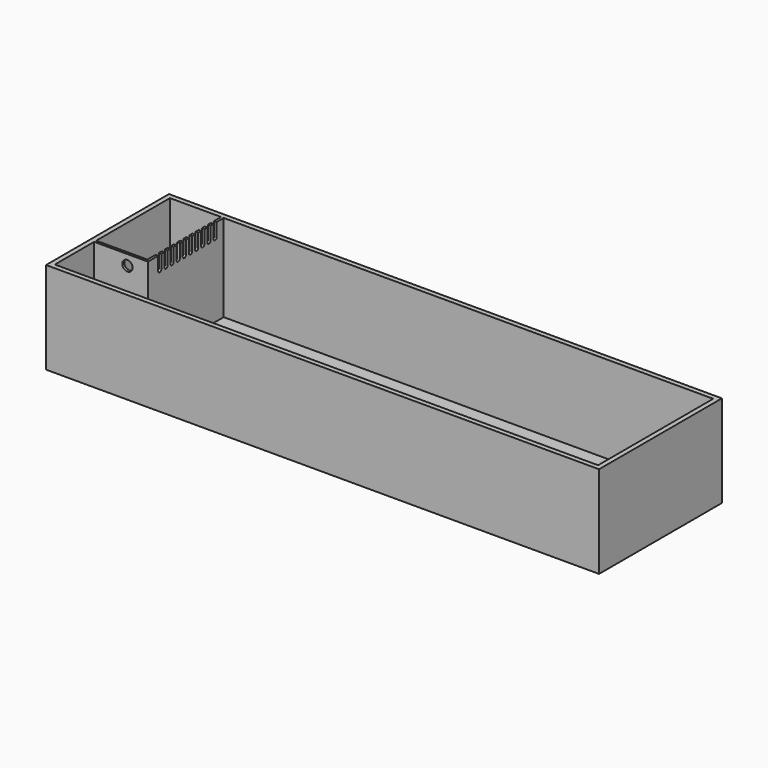
from build123d import *

# Parameters (mm, degrees)
F0_W      = 1371.6
F0_H      = 381
F1_DEPTH  = 228.6
F2_T      = -12
F4_DEPTH  = 216.6
F5_R      = 12.7
F6_DEPTH  = 25.4
F8_DEPTH  = 25.4
F9_R      = 12.7
F10_DEPTH = 25.4


with BuildPart() as f1:
    # F0 (on Top) → F1 (new body)
    with BuildSketch(Plane.XY):
        with Locations((-10.599822, -28.919976)):
            Rectangle(F0_W, F0_H)
    extrude(amount=F1_DEPTH)

    # F2
    f2_openings = [f1.faces().sort_by_distance(p)[0] for p in [
        (-10.599822, -28.919976, 228.6),
    ]]
    offset(amount=F2_T, openings=f2_openings)

    # F9 (on face) → F10 (cut)
    with BuildSketch(Plane(origin=(-696.399822, 0, 0), x_dir=(0, -1, 0), z_dir=(-1, 0, 0))):
        with Locations((-76.2, 50.1)):
            Circle(F9_R)
        with Locations((0, 50.1)):
            Circle(F9_R)
    extrude(amount=-F10_DEPTH, mode=Mode.SUBTRACT)


with BuildPart() as f4:
    # F3 (on face) → F4 (new body)
    with BuildSketch(Plane.XY.offset(12)):
        Polygon((-551.049822, 149.580024), (-557.399822, 149.580024), (-557.399822, -79.019976), (-684.399822, -79.019976), (-684.399822, -85.369976), (-551.049822, -85.369976), align=None)
    extrude(amount=F4_DEPTH)

    # F5 (on face) → F6 (cut)
    with BuildSketch(Plane.XZ.offset(85.369976)):
        with Locations((-601.849822, 203.2)):
            Circle(F5_R)
    extrude(amount=-F6_DEPTH, mode=Mode.SUBTRACT)

    # F7 (on face) → F8 (cut)
    with BuildSketch(Plane.YZ.offset(-551.049822)):
        with BuildLine():
            Line((-43.619976, 228.6), (-53.619976, 228.6))
            Line((-53.619976, 228.6), (-53.619976, 195.5))
            ThreePointArc((-53.619976, 195.5), (-48.619976, 190.5), (-43.619976, 195.5))
            Line((-43.619976, 195.5), (-43.619976, 228.6))
        make_face()
        with BuildLine():
            Line((-24.569976, 228.6), (-34.569976, 228.6))
            Line((-34.569976, 228.6), (-34.569976, 195.5))
            ThreePointArc((-34.569976, 195.5), (-29.569976, 190.5), (-24.569976, 195.5))
            Line((-24.569976, 195.5), (-24.569976, 228.6))
        make_face()
        with BuildLine():
            Line((-5.519976, 228.6), (-15.519976, 228.6))
            Line((-15.519976, 228.6), (-15.519976, 195.5))
            ThreePointArc((-15.519976, 195.5), (-10.519976, 190.5), (-5.519976, 195.5))
            Line((-5.519976, 195.5), (-5.519976, 228.6))
        make_face()
        with BuildLine():
            Line((13.530024, 228.6), (3.530024, 228.6))
            Line((3.530024, 228.6), (3.530024, 195.5))
            ThreePointArc((3.530024, 195.5), (8.530024, 190.5), (13.530024, 195.5))
            Line((13.530024, 195.5), (13.530024, 228.6))
        make_face()
        with BuildLine():
            Line((32.580024, 228.6), (22.580024, 228.6))
            Line((22.580024, 228.6), (22.580024, 195.5))
            ThreePointArc((22.580024, 195.5), (27.580024, 190.5), (32.580024, 195.5))
            Line((32.580024, 195.5), (32.580024, 228.6))
        make_face()
        with BuildLine():
            Line((51.630024, 228.6), (41.630024, 228.6))
            Line((41.630024, 228.6), (41.630024, 195.5))
            ThreePointArc((41.630024, 195.5), (46.630024, 190.5), (51.630024, 195.5))
            Line((51.630024, 195.5), (51.630024, 228.6))
        make_face()
        with BuildLine():
            Line((70.680024, 228.6), (60.680024, 228.6))
            Line((60.680024, 228.6), (60.680024, 195.5))
            ThreePointArc((60.680024, 195.5), (65.680024, 190.5), (70.680024, 195.5))
            Line((70.680024, 195.5), (70.680024, 228.6))
        make_face()
        with BuildLine():
            Line((89.730024, 228.6), (79.730024, 228.6))
            Line((79.730024, 228.6), (79.730024, 195.5))
            ThreePointArc((79.730024, 195.5), (84.730024, 190.5), (89.730024, 195.5))
            Line((89.730024, 195.5), (89.730024, 228.6))
        make_face()
        with BuildLine():
            Line((108.780024, 228.6), (98.780024, 228.6))
            Line((98.780024, 228.6), (98.780024, 195.5))
            ThreePointArc((98.780024, 195.5), (103.780024, 190.5), (108.780024, 195.5))
            Line((108.780024, 195.5), (108.780024, 228.6))
        make_face()
        with BuildLine():
            Line((127.830024, 228.6), (117.830024, 228.6))
            Line((117.830024, 228.6), (117.830024, 195.5))
            ThreePointArc((117.830024, 195.5), (122.830024, 190.5), (127.830024, 195.5))
            Line((127.830024, 195.5), (127.830024, 228.6))
        make_face()
    extrude(amount=-F8_DEPTH, mode=Mode.SUBTRACT)


solid = Compound([f1.part, f4.part])
